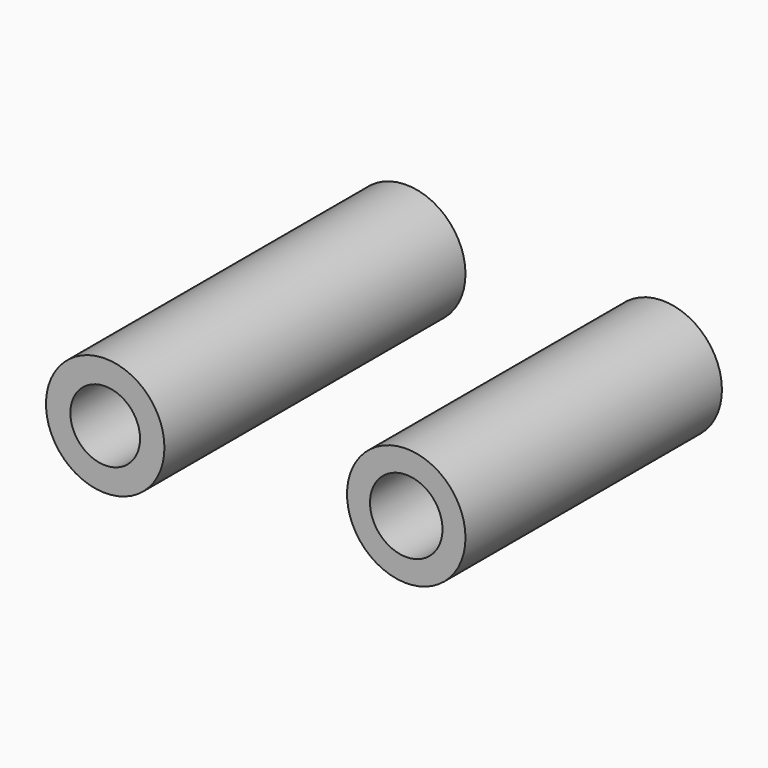
from build123d import *

# Parameters (mm, degrees)
F0_R          = 4.25
F0_R_2        = 2.5
F1_DEPTH      = 13.5
F2_R          = 4.25
F2_R_2        = 2.6
F3_DEPTH      = 11.5
F3_DEPTH_BACK = 11.5


with BuildPart() as f1:
    # F0 (on Front) → F1 (new body, symmetric)
    with BuildSketch(Plane.XZ):
        Circle(F0_R)
        Circle(F0_R_2, mode=Mode.SUBTRACT)
    extrude(amount=F1_DEPTH, both=True)


with BuildPart() as f3:
    # F2 (on Front) → F3 (new body, two sides)
    with BuildSketch(Plane.XZ) as f3_sk:
        with Locations((20, 0)):
            Circle(F2_R)
        with Locations((20, 0)):
            Circle(F2_R_2, mode=Mode.SUBTRACT)
    extrude(amount=F3_DEPTH)
    extrude(f3_sk.sketch, amount=-F3_DEPTH_BACK)


solid = Compound([f1.part, f3.part])
